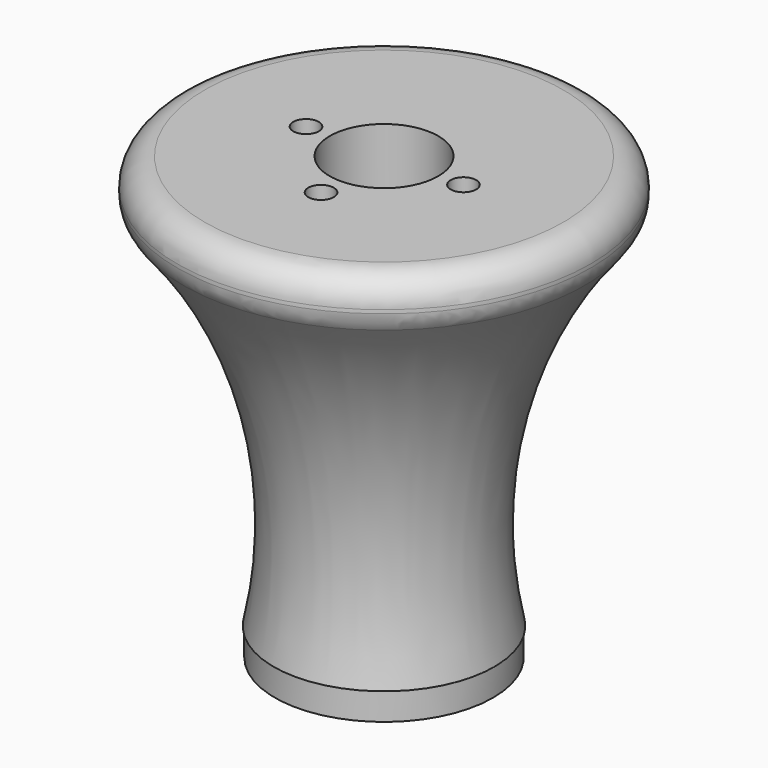
from build123d import *

# Parameters (mm, degrees)
F3_R      = 20.0994613734
F4_DEPTH  = 5.08
F5_DEPTH  = 7.62
F6_R      = 5.08
F8_D      = 4.6999906
F8_DEPTH  = 2.54
F8_TIP    = 1.4120196307
F9_R      = 10.0000054
F10_DEPTH = 81.281


with BuildPart() as f2:
    # F0 (on Right) → F2 (revolve)
    with BuildSketch(Plane.YZ):
        with BuildLine():
            Line((-10.16, 0), (0, 0))
            Line((0, 0), (0, 68.58))
            Line((0, 68.58), (-38.1, 68.58))
            ThreePointArc((-38.1, 68.58), (-21.0473280724, 36.4062482775), (-20.32, 0))
            Line((-20.32, 0), (-10.16, 0))
        make_face()
    revolve(axis=Axis((0, 0, 21.4434694499), (0, 0, 1)))

    # F3 (on Top) → F4 (join)
    with BuildSketch(Plane.XY):
        Circle(F3_R)
    extrude(amount=-F4_DEPTH)

    # F5 (add): a face of the model
    f5_faces = [f2.faces().sort_by_distance(p)[0] for p in [
        (0, 0, 68.58),
    ]]
    extrude(f5_faces, amount=F5_DEPTH)

    # F6
    f6_edges = [f2.edges().sort_by_distance(p)[0] for p in [
        (0, 38.1, 76.2),
        (0, 38.1, 68.58),
    ]]
    fillet(f6_edges, radius=F6_R)

    # F8
    with Locations(Plane.XY.offset(76.2)):
        with Locations((14.499971, 0.168066554), (-14.499971, 0.168066554), (0, -14.5009449819)):
            Hole(F8_D / 2, depth=F8_DEPTH)
            with Locations((0, 0, -(F8_DEPTH + F8_TIP / 2))):  # 118° drill point
                Cone(0, F8_D / 2, F8_TIP, mode=Mode.SUBTRACT)

    # F9 (on face) → F10 (cut, through all)
    with BuildSketch(Plane.XY.offset(76.2)):
        Circle(F9_R)
    extrude(amount=-F10_DEPTH, mode=Mode.SUBTRACT)


solid = f2.part
